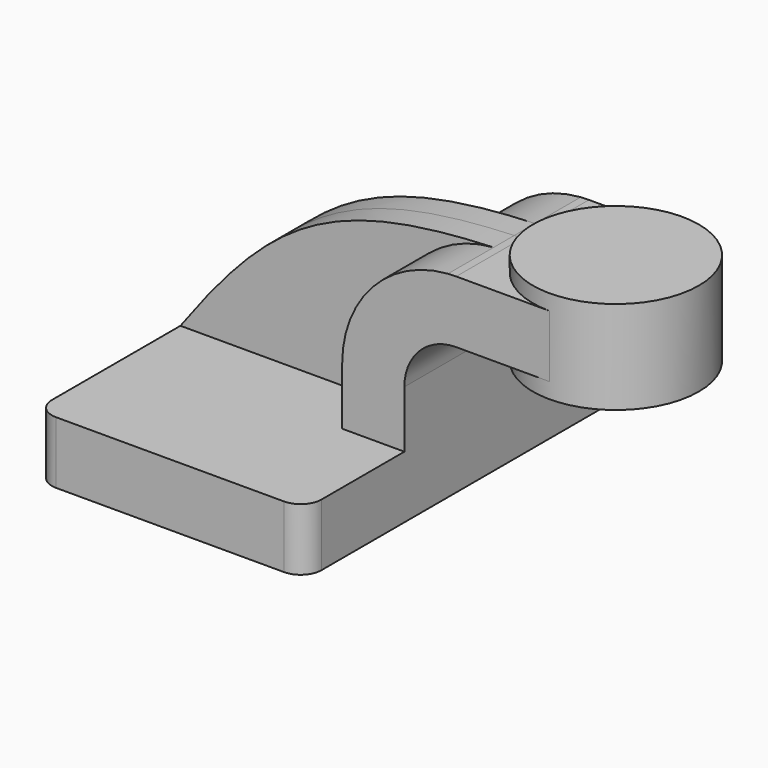
from build123d import *

# Parameters (mm, degrees)
F1_DEPTH = 63.5
F0_W     = 25.4
F0_H     = 19.05
F2_DEPTH = 25.4
F3_DEPTH = 7.9375
F5_R     = 6.35


with BuildPart() as f1:
    # F0 (on Front) → F1 (new body, symmetric)
    with BuildSketch(Plane.XZ):
        Polygon((-41.275, -9.525), (41.275, -9.525), (41.275, 9.525), (22.225, 9.525), (-41.275, 9.525), align=None)
    extrude(amount=F1_DEPTH, both=True)

    # F0 (on Front) → F2 (join, symmetric)
    with BuildSketch(Plane.XZ):
        with Locations((73.025, 52.4002)):
            Rectangle(F0_W, F0_H)
        with BuildLine():
            Line((22.225, 9.525), (41.275, 9.525))
            Line((41.275, 9.525), (41.275, 27.0002))
            ThreePointArc((41.275, 27.0002), (45.9246798487, 38.2255201513), (57.15, 42.8752))
            Line((57.15, 42.8752), (60.325, 42.8752))
            Line((60.325, 42.8752), (60.325, 61.9252))
            Line((60.325, 61.9252), (57.15, 61.9252))
            add(Edge.make_bspline(
                [(54.6234027187, 61.833688645), (55.4567080976, 61.8670202136), (56.2988427595, 61.8974990384), (57.15, 61.9252)],
                knots=[109.6660431466, 109.6660431466, 109.6660431466, 109.6660431466, 111.5045361635, 111.5045361635, 111.5045361635, 111.5045361635], degree=3))
            ThreePointArc((54.6234027187, 61.833688645), (31.5766052796, 50.7858491918), (22.225, 27.0002))
            Line((22.225, 27.0002), (22.225, 9.525))
        make_face()
    extrude(amount=F2_DEPTH, both=True)

    # F0 (on Front) → F3 (join, symmetric)
    with BuildSketch(Plane.XZ):
        with BuildLine():
            add(Edge.make_bspline(
                [(-41.275, 9.525), (-13.3742369679, 47.7068347793), (4.916766467, 59.8454617589), (54.6234027187, 61.833688645)],
                knots=[0, 0, 0, 0, 109.6660431466, 109.6660431466, 109.6660431466, 109.6660431466], degree=3))
            Line((-41.275, 9.525), (22.225, 9.525))
            Line((22.225, 9.525), (22.225, 27.0002))
            ThreePointArc((22.225, 27.0002), (31.5766052796, 50.7858491918), (54.6234027187, 61.833688645))
        make_face()
    extrude(amount=F3_DEPTH, both=True)

    # F0 (on Front) → F4 (revolve)
    with BuildSketch(Plane.XZ):
        Polygon((85.725, 61.9252), (85.725, 42.8752), (85.725, 38.1), (111.125, 38.1), (111.125, 66.675), (85.725, 66.675), align=None)
    revolve(axis=Axis((85.725, 0, 52.3875), (0, 0, 1)))

    # F5
    f5_edges = [f1.edges().sort_by_distance(p)[0] for p in [
        (-41.275, -63.5, 0),
        (41.275, -63.5, 0),
        (41.275, 63.5, 0),
        (-41.275, 63.5, 0),
    ]]
    fillet(f5_edges, radius=F5_R)


solid = f1.part
